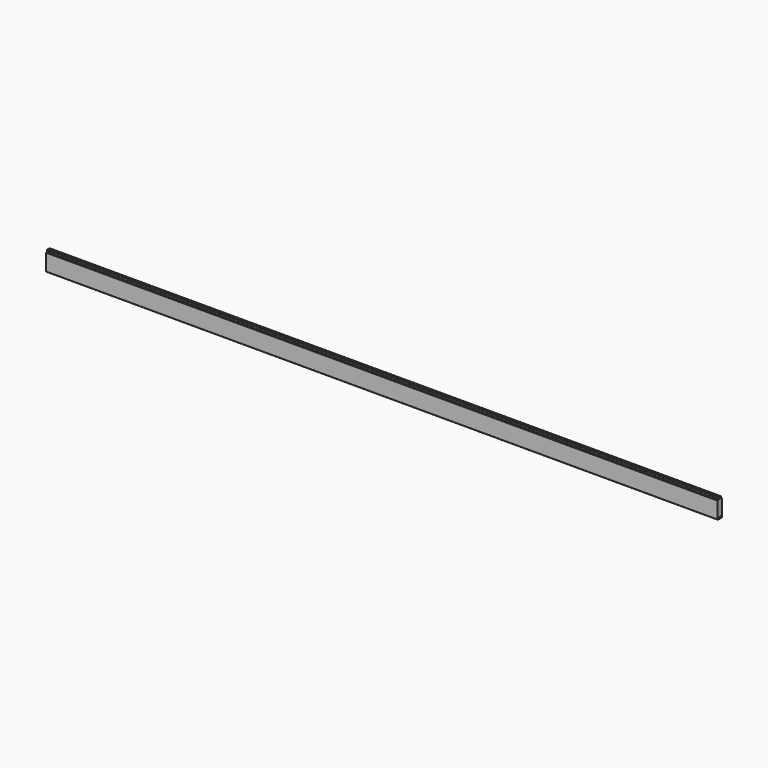
from build123d import *

# Parameters (mm, degrees)
F1_DEPTH = 2550


with BuildPart() as f1:
    # F0 (on Right) → F1 (new body, symmetric)
    with BuildSketch(Plane.YZ):
        Polygon((20, -70), (20, 56), (17, 59), (12, 59), (12, 73), (4, 73), (4, 59), (-4, 59), (-4, 73), (-12, 73), (-12, 59), (-17, 59), (-20, 56), (-20, -70), (-17, -73), (-12, -73), (-12, -59), (-4, -59), (-4, -73), (4, -73), (4, -59), (12, -59), (12, -73), (17, -73), align=None)
    extrude(amount=F1_DEPTH, both=True)


solid = f1.part
